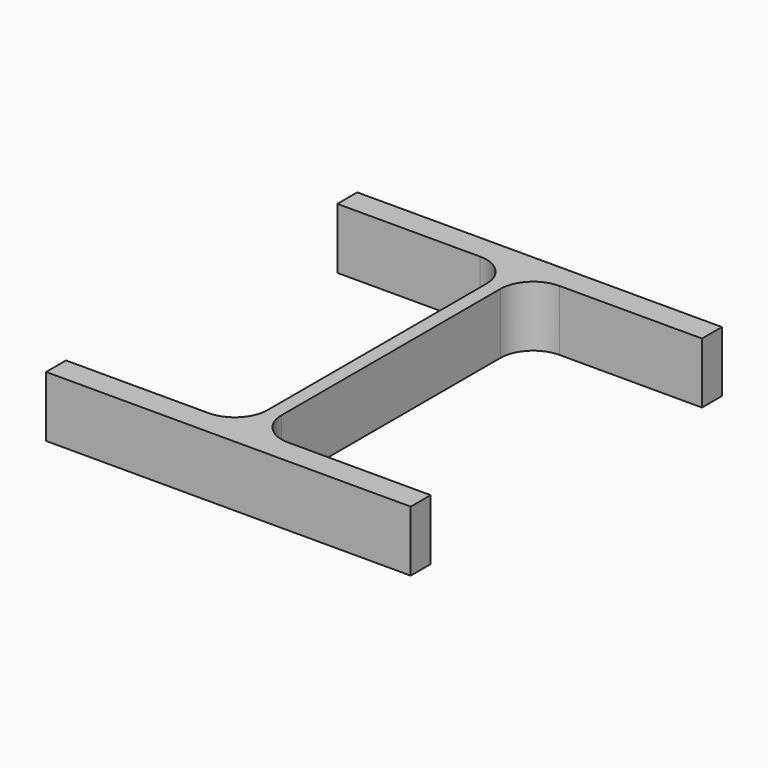
from build123d import *

# Parameters (mm, degrees)
EXTRUDE_DEPTH = 50


with BuildPart() as part:
    # Sketch → Extrude (new body)
    with BuildSketch(Plane.XY):
        with BuildLine():
            Line((5.75, -112.5), (5.75, 112.5))
            ThreePointArc((32.75, 139.5), (13.658117, 131.591883), (5.75, 112.5))
            Line((32.75, 139.5), (150, 139.5))
            Line((150, 139.5), (150, 160))
            Line((150, 160), (-150, 160))
            Line((-150, 160), (-150, 139.5))
            Line((-150, 139.5), (-32.75, 139.5))
            ThreePointArc((-5.75, 112.5), (-13.658117, 131.591883), (-32.75, 139.5))
            Line((-5.75, 112.5), (-5.75, -112.5))
            ThreePointArc((-32.75, -139.5), (-13.658117, -131.591883), (-5.75, -112.5))
            Line((-32.75, -139.5), (-150, -139.5))
            Line((-150, -139.5), (-150, -160))
            Line((-150, -160), (150, -160))
            Line((150, -160), (150, -139.5))
            Line((150, -139.5), (32.75, -139.5))
            ThreePointArc((5.75, -112.5), (13.658117, -131.591883), (32.75, -139.5))
        make_face()
    extrude(amount=EXTRUDE_DEPTH)


solid = part.part
